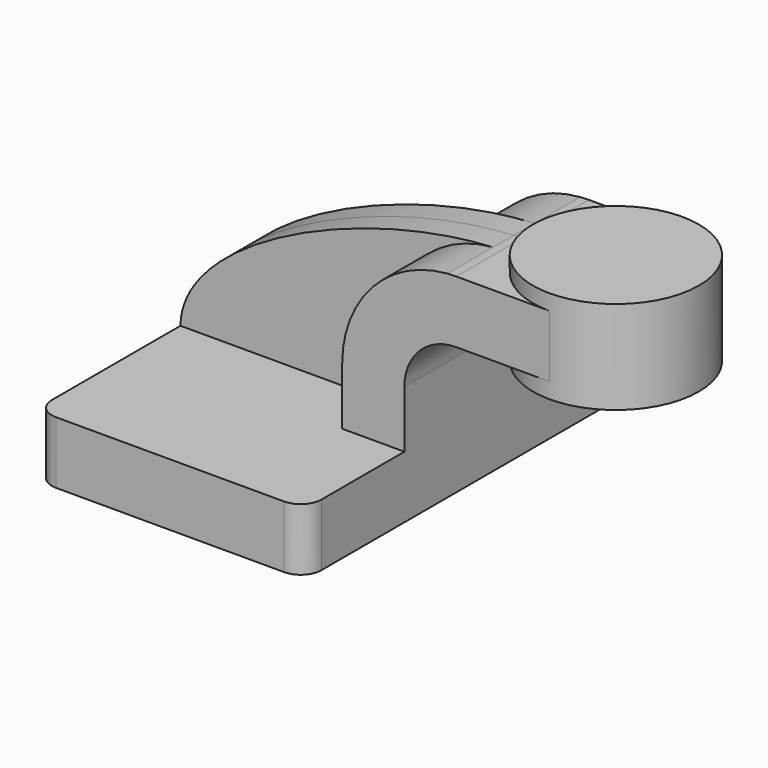
from build123d import *

# Parameters (mm, degrees)
F1_DEPTH = 63.5
F0_W     = 25.4
F0_H     = 19.05
F2_DEPTH = 25.4
F3_DEPTH = 7.9375
F5_R     = 6.35


with BuildPart() as f1:
    # F0 (on Front) → F1 (new body, symmetric)
    with BuildSketch(Plane.XZ):
        Polygon((-41.275, 9.525), (-41.275, -9.525), (41.275, -9.525), (41.275, 9.525), (22.225, 9.525), align=None)
    extrude(amount=F1_DEPTH, both=True)

    # F0 (on Front) → F2 (join, symmetric)
    with BuildSketch(Plane.XZ):
        with Locations((73.025, 52.4002)):
            Rectangle(F0_W, F0_H)
        with BuildLine():
            Line((22.225, 9.525), (41.275, 9.525))
            Line((41.275, 9.525), (41.275, 27.0002))
            ThreePointArc((41.275, 27.0002), (45.9246798487, 38.2255201513), (57.15, 42.8752))
            Line((57.15, 42.8752), (60.325, 42.8752))
            Line((60.325, 42.8752), (60.325, 61.9252))
            Line((60.325, 61.9252), (57.15, 61.9252))
            add(Edge.make_bspline(
                [(54.4617401278, 61.8215854385), (55.3652962771, 61.8675171828), (56.2616391895, 61.9021368307), (57.15, 61.9252)],
                knots=[109.0694907263, 109.0694907263, 109.0694907263, 109.0694907263, 111.5045361635, 111.5045361635, 111.5045361635, 111.5045361635], degree=3))
            ThreePointArc((54.4617401278, 61.8215854385), (31.5214699891, 50.7264317801), (22.225, 27.0002))
            Line((22.225, 27.0002), (22.225, 9.525))
        make_face()
    extrude(amount=F2_DEPTH, both=True)

    # F0 (on Front) → F3 (join, symmetric)
    with BuildSketch(Plane.XZ):
        with BuildLine():
            add(Edge.make_bspline(
                [(-41.275, 9.525), (-40.9534464322, 35.0115971257), (13.9900480858, 59.7642308284), (54.4617401278, 61.8215854385)],
                knots=[0, 0, 0, 0, 109.0694907263, 109.0694907263, 109.0694907263, 109.0694907263], degree=3))
            Line((-41.275, 9.525), (22.225, 9.525))
            Line((22.225, 9.525), (22.225, 27.0002))
            ThreePointArc((22.225, 27.0002), (31.5214699891, 50.7264317801), (54.4617401278, 61.8215854385))
        make_face()
    extrude(amount=F3_DEPTH, both=True)

    # F0 (on Front) → F4 (revolve)
    with BuildSketch(Plane.XZ):
        Polygon((85.725, 66.675), (85.725, 61.9252), (85.725, 42.8752), (85.725, 38.1), (111.125, 38.1), (111.125, 66.675), align=None)
    revolve(axis=Axis((85.725, 0, 52.3875), (0, 0, 1)))

    # F5
    f5_edges = [f1.edges().sort_by_distance(p)[0] for p in [
        (41.275, -63.5, 0),
        (-41.275, -63.5, 0),
        (-41.275, 63.5, 0),
        (41.275, 63.5, 0),
    ]]
    fillet(f5_edges, radius=F5_R)


solid = f1.part
